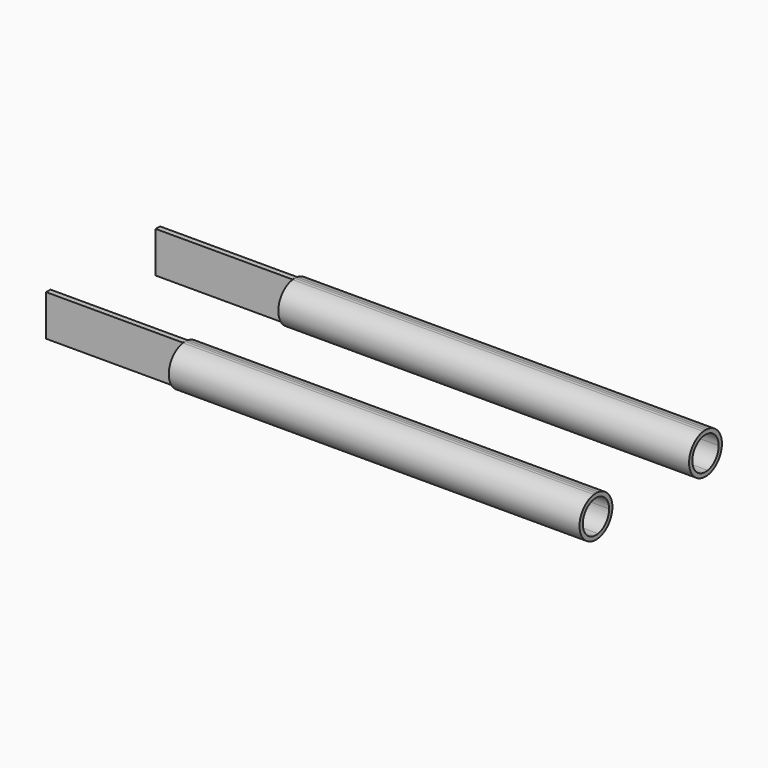
from build123d import *

# Parameters (mm, degrees)
F1_DEPTH = 100
F2_DEPTH = 300
F3_DEPTH = 30


with BuildPart() as f1:
    # F0 (on Right) → F1 (new body)
    with BuildSketch(Plane.YZ):
        with BuildLine():
            Line((70.3968688385, -11.8321595662), (70.3968688385, 11.8321595662))
            ThreePointArc((70.3968688385, 11.8321595662), (68.3968688385, 12), (66.3968688385, 11.8321595662))
            Line((66.3968688385, 11.8321595662), (66.3968688385, -11.8321595662))
            ThreePointArc((66.3968688385, -11.8321595662), (68.3968688385, -12), (70.3968688385, -11.8321595662))
        make_face()
        with BuildLine():
            Line((66.3968688385, -15), (68.3968688385, -15))
            ThreePointArc((68.3968688385, -15), (67.3946291491, -14.9664797332), (66.3968688385, -14.8660687473))
            Line((66.3968688385, -14.8660687473), (66.3968688385, -15))
        make_face()
        with BuildLine():
            Line((70.3968688385, -15), (70.3968688385, -14.8660687473))
            ThreePointArc((70.3968688385, -14.8660687473), (69.399108528, -14.9664797332), (68.3968688385, -15))
            Line((68.3968688385, -15), (70.3968688385, -15))
        make_face()
        with BuildLine():
            ThreePointArc((68.3968688385, -15), (69.399108528, -14.9664797332), (70.3968688385, -14.8660687473))
            Line((70.3968688385, -14.8660687473), (70.3968688385, -11.8321595662))
            ThreePointArc((70.3968688385, -11.8321595662), (68.3968688385, -12), (66.3968688385, -11.8321595662))
            Line((66.3968688385, -11.8321595662), (66.3968688385, -14.8660687473))
            ThreePointArc((66.3968688385, -14.8660687473), (67.3946291491, -14.9664797332), (68.3968688385, -15))
        make_face()
        with BuildLine():
            Line((70.3968688385, 11.8321595662), (70.3968688385, 14.8660687473))
            ThreePointArc((70.3968688385, 14.8660687473), (69.399108528, 14.9664797332), (68.3968688385, 15))
            ThreePointArc((68.3968688385, 15), (67.3946291491, 14.9664797332), (66.3968688385, 14.8660687473))
            Line((66.3968688385, 14.8660687473), (66.3968688385, 11.8321595662))
            ThreePointArc((66.3968688385, 11.8321595662), (68.3968688385, 12), (70.3968688385, 11.8321595662))
        make_face()
        with BuildLine():
            ThreePointArc((66.3968688385, 14.8660687473), (67.3946291491, 14.9664797332), (68.3968688385, 15))
            Line((68.3968688385, 15), (66.3968688385, 15))
            Line((66.3968688385, 15), (66.3968688385, 14.8660687473))
        make_face()
        with BuildLine():
            ThreePointArc((68.3968688385, 15), (69.399108528, 14.9664797332), (70.3968688385, 14.8660687473))
            Line((70.3968688385, 14.8660687473), (70.3968688385, 15))
            Line((70.3968688385, 15), (68.3968688385, 15))
        make_face()
    extrude(amount=-F1_DEPTH)


with BuildPart() as f1b:
    # F0 (on Right) → F1, piece 2 (new body)
    with BuildSketch(Plane.YZ):
        with BuildLine():
            ThreePointArc((-31.6031311615, 15), (-30.600891472, 14.9664797332), (-29.6031311615, 14.8660687473))
            Line((-29.6031311615, 14.8660687473), (-29.6031311615, 15))
            Line((-29.6031311615, 15), (-31.6031311615, 15))
        make_face()
        with BuildLine():
            ThreePointArc((-33.6031311615, 14.8660687473), (-32.6053708509, 14.9664797332), (-31.6031311615, 15))
            Line((-31.6031311615, 15), (-33.6031311615, 15))
            Line((-33.6031311615, 15), (-33.6031311615, 14.8660687473))
        make_face()
        with BuildLine():
            Line((-29.6031311615, 11.8321595662), (-29.6031311615, 14.8660687473))
            ThreePointArc((-29.6031311615, 14.8660687473), (-30.600891472, 14.9664797332), (-31.6031311615, 15))
            ThreePointArc((-31.6031311615, 15), (-32.6053708509, 14.9664797332), (-33.6031311615, 14.8660687473))
            Line((-33.6031311615, 14.8660687473), (-33.6031311615, 11.8321595662))
            ThreePointArc((-33.6031311615, 11.8321595662), (-31.6031311615, 12), (-29.6031311615, 11.8321595662))
        make_face()
        with BuildLine():
            Line((-29.6031311615, -11.8321595662), (-29.6031311615, 11.8321595662))
            ThreePointArc((-29.6031311615, 11.8321595662), (-31.6031311615, 12), (-33.6031311615, 11.8321595662))
            Line((-33.6031311615, 11.8321595662), (-33.6031311615, -11.8321595662))
            ThreePointArc((-33.6031311615, -11.8321595662), (-31.6031311615, -12), (-29.6031311615, -11.8321595662))
        make_face()
        with BuildLine():
            ThreePointArc((-31.6031311615, -15), (-30.600891472, -14.9664797332), (-29.6031311615, -14.8660687473))
            Line((-29.6031311615, -14.8660687473), (-29.6031311615, -11.8321595662))
            ThreePointArc((-29.6031311615, -11.8321595662), (-31.6031311615, -12), (-33.6031311615, -11.8321595662))
            Line((-33.6031311615, -11.8321595662), (-33.6031311615, -14.8660687473))
            ThreePointArc((-33.6031311615, -14.8660687473), (-32.6053708509, -14.9664797332), (-31.6031311615, -15))
        make_face()
        with BuildLine():
            Line((-29.6031311615, -15), (-29.6031311615, -14.8660687473))
            ThreePointArc((-29.6031311615, -14.8660687473), (-30.600891472, -14.9664797332), (-31.6031311615, -15))
            Line((-31.6031311615, -15), (-29.6031311615, -15))
        make_face()
        with BuildLine():
            Line((-33.6031311615, -15), (-31.6031311615, -15))
            ThreePointArc((-31.6031311615, -15), (-32.6053708509, -14.9664797332), (-33.6031311615, -14.8660687473))
            Line((-33.6031311615, -14.8660687473), (-33.6031311615, -15))
        make_face()
    extrude(amount=-F1_DEPTH)


with BuildPart() as f2:
    # F0 (on Right) → F2 (new body)
    with BuildSketch(Plane.YZ):
        with BuildLine():
            ThreePointArc((70.3968688385, -14.8660687473), (79.6884586292, -9.8742088291), (83.3968688385, 0))
            ThreePointArc((83.3968688385, 0), (79.6884586292, 9.8742088291), (70.3968688385, 14.8660687473))
            Line((70.3968688385, 14.8660687473), (70.3968688385, 11.8321595662))
            ThreePointArc((70.3968688385, 11.8321595662), (77.5620202285, 7.7459666924), (80.3968688385, 0))
            ThreePointArc((80.3968688385, 0), (77.5620202285, -7.7459666924), (70.3968688385, -11.8321595662))
            Line((70.3968688385, -11.8321595662), (70.3968688385, -14.8660687473))
        make_face()
        with BuildLine():
            Line((70.3968688385, 11.8321595662), (70.3968688385, 14.8660687473))
            ThreePointArc((70.3968688385, 14.8660687473), (69.399108528, 14.9664797332), (68.3968688385, 15))
            ThreePointArc((68.3968688385, 15), (67.3946291491, 14.9664797332), (66.3968688385, 14.8660687473))
            Line((66.3968688385, 14.8660687473), (66.3968688385, 11.8321595662))
            ThreePointArc((66.3968688385, 11.8321595662), (68.3968688385, 12), (70.3968688385, 11.8321595662))
        make_face()
        with BuildLine():
            Line((66.3968688385, 11.8321595662), (66.3968688385, 14.8660687473))
            ThreePointArc((66.3968688385, 14.8660687473), (53.3968688385, 0), (66.3968688385, -14.8660687473))
            Line((66.3968688385, -14.8660687473), (66.3968688385, -11.8321595662))
            ThreePointArc((66.3968688385, -11.8321595662), (56.3968688385, 0), (66.3968688385, 11.8321595662))
        make_face()
        with BuildLine():
            ThreePointArc((68.3968688385, -15), (69.399108528, -14.9664797332), (70.3968688385, -14.8660687473))
            Line((70.3968688385, -14.8660687473), (70.3968688385, -11.8321595662))
            ThreePointArc((70.3968688385, -11.8321595662), (68.3968688385, -12), (66.3968688385, -11.8321595662))
            Line((66.3968688385, -11.8321595662), (66.3968688385, -14.8660687473))
            ThreePointArc((66.3968688385, -14.8660687473), (67.3946291491, -14.9664797332), (68.3968688385, -15))
        make_face()
    extrude(amount=F2_DEPTH)


with BuildPart() as f2b:
    # F0 (on Right) → F2, piece 2 (new body)
    with BuildSketch(Plane.YZ):
        with BuildLine():
            Line((-33.6031311615, 11.8321595662), (-33.6031311615, 14.8660687473))
            ThreePointArc((-33.6031311615, 14.8660687473), (-46.6031311615, 0), (-33.6031311615, -14.8660687473))
            Line((-33.6031311615, -14.8660687473), (-33.6031311615, -11.8321595662))
            ThreePointArc((-33.6031311615, -11.8321595662), (-43.6031311615, 0), (-33.6031311615, 11.8321595662))
        make_face()
        with BuildLine():
            Line((-29.6031311615, 11.8321595662), (-29.6031311615, 14.8660687473))
            ThreePointArc((-29.6031311615, 14.8660687473), (-30.600891472, 14.9664797332), (-31.6031311615, 15))
            ThreePointArc((-31.6031311615, 15), (-32.6053708509, 14.9664797332), (-33.6031311615, 14.8660687473))
            Line((-33.6031311615, 14.8660687473), (-33.6031311615, 11.8321595662))
            ThreePointArc((-33.6031311615, 11.8321595662), (-31.6031311615, 12), (-29.6031311615, 11.8321595662))
        make_face()
        with BuildLine():
            ThreePointArc((-29.6031311615, -14.8660687473), (-20.3115413708, -9.8742088291), (-16.6031311615, 0))
            ThreePointArc((-16.6031311615, 0), (-20.3115413708, 9.8742088291), (-29.6031311615, 14.8660687473))
            Line((-29.6031311615, 14.8660687473), (-29.6031311615, 11.8321595662))
            ThreePointArc((-29.6031311615, 11.8321595662), (-22.4379797715, 7.7459666924), (-19.6031311615, 0))
            ThreePointArc((-19.6031311615, 0), (-22.4379797715, -7.7459666924), (-29.6031311615, -11.8321595662))
            Line((-29.6031311615, -11.8321595662), (-29.6031311615, -14.8660687473))
        make_face()
        with BuildLine():
            ThreePointArc((-31.6031311615, -15), (-30.600891472, -14.9664797332), (-29.6031311615, -14.8660687473))
            Line((-29.6031311615, -14.8660687473), (-29.6031311615, -11.8321595662))
            ThreePointArc((-29.6031311615, -11.8321595662), (-31.6031311615, -12), (-33.6031311615, -11.8321595662))
            Line((-33.6031311615, -11.8321595662), (-33.6031311615, -14.8660687473))
            ThreePointArc((-33.6031311615, -14.8660687473), (-32.6053708509, -14.9664797332), (-31.6031311615, -15))
        make_face()
    extrude(amount=F2_DEPTH)


with BuildPart() as f3:
    # F0 (on Right) → F3 (new body)
    with BuildSketch(Plane.YZ):
        with BuildLine():
            Line((70.3968688385, -11.8321595662), (70.3968688385, 11.8321595662))
            ThreePointArc((70.3968688385, 11.8321595662), (68.3968688385, 12), (66.3968688385, 11.8321595662))
            Line((66.3968688385, 11.8321595662), (66.3968688385, -11.8321595662))
            ThreePointArc((66.3968688385, -11.8321595662), (68.3968688385, -12), (70.3968688385, -11.8321595662))
        make_face()
    extrude(amount=F3_DEPTH)


with BuildPart() as f3b:
    # F0 (on Right) → F3, piece 2 (new body)
    with BuildSketch(Plane.YZ):
        with BuildLine():
            Line((-29.6031311615, -11.8321595662), (-29.6031311615, 11.8321595662))
            ThreePointArc((-29.6031311615, 11.8321595662), (-31.6031311615, 12), (-33.6031311615, 11.8321595662))
            Line((-33.6031311615, 11.8321595662), (-33.6031311615, -11.8321595662))
            ThreePointArc((-33.6031311615, -11.8321595662), (-31.6031311615, -12), (-29.6031311615, -11.8321595662))
        make_face()
    extrude(amount=F3_DEPTH)


solid = Compound([f1.part, f1b.part, f2.part, f2b.part, f3.part, f3b.part])
